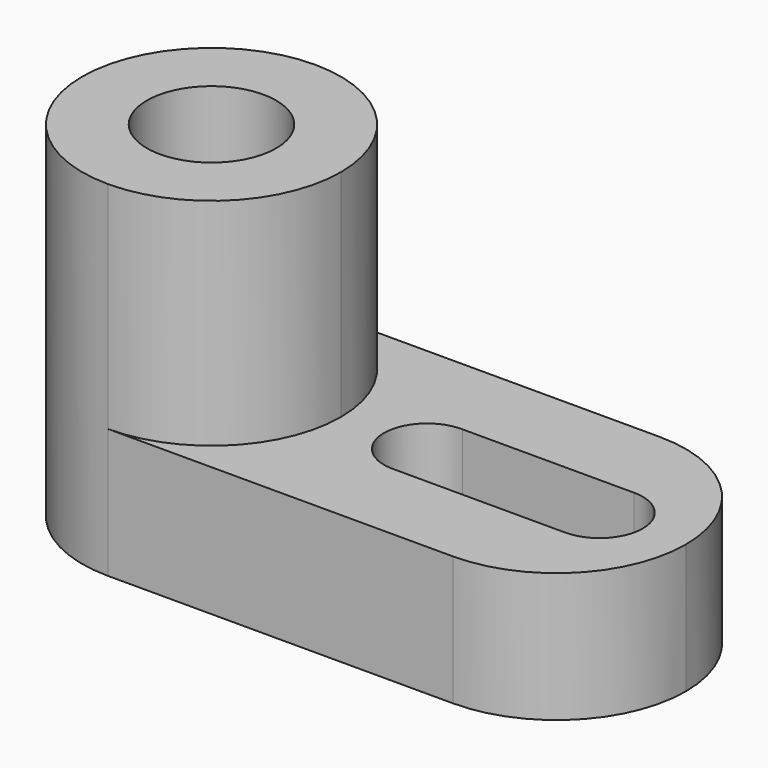
from build123d import *

# Parameters (mm, degrees)
F1_DEPTH  = 38.1
F3_DEPTH  = 50.8
F5_DEPTH  = 31.75
F7_DEPTH  = 25.4
F8_R      = 9.525
F9_DEPTH  = 63.5
F11_DEPTH = 25.4


with BuildPart() as f1:
    # F0 (on Front) → F1 (new body)
    with BuildSketch(Plane.XZ):
        Polygon((0, 50.8), (0, 0), (88.9, 0), (88.9, 19.05), (38.1, 19.05), (38.1, 50.8), align=None)
    extrude(amount=F1_DEPTH)

    # F2 (on face) → F3 (cut)
    with BuildSketch(Plane.XY.offset(50.8)):
        with BuildLine():
            ThreePointArc((19.05, -38.1), (5.579616, -32.520384), (0, -19.05))
            Line((0, -19.05), (0, -38.1))
            Line((0, -38.1), (19.05, -38.1))
        make_face()
        with BuildLine():
            ThreePointArc((0, -19.05), (5.579616, -5.579616), (19.05, 0))
            Line((19.05, 0), (0, 0))
            Line((0, 0), (0, -19.05))
        make_face()
    extrude(amount=-F3_DEPTH, mode=Mode.SUBTRACT)

    # F4 (on face) → F5 (cut)
    with BuildSketch(Plane.XY.offset(50.8)):
        with BuildLine():
            Line((38.1, -38.1), (38.1, -19.05))
            ThreePointArc((38.1, -19.05), (32.520384, -32.520384), (19.05, -38.1))
            Line((19.05, -38.1), (38.1, -38.1))
        make_face()
        with BuildLine():
            Line((38.1, 0), (19.05, 0))
            ThreePointArc((19.05, 0), (32.520384, -5.579616), (38.1, -19.05))
            Line((38.1, -19.05), (38.1, 0))
        make_face()
    extrude(amount=-F5_DEPTH, mode=Mode.SUBTRACT)

    # F6 (on face) → F7 (cut)
    with BuildSketch(Plane.XY.offset(19.05)):
        with BuildLine():
            ThreePointArc((19.05, -38.1), (38.1, -19.05), (19.05, 0))
            Line((19.05, 0), (19.05, -38.1))
        make_face()
        with BuildLine():
            Line((88.9, 0), (69.85, 0))
            ThreePointArc((69.85, 0), (83.320384, -5.579616), (88.9, -19.05))
            Line((88.9, -19.05), (88.9, 0))
        make_face()
        with BuildLine():
            ThreePointArc((88.9, -19.05), (83.320384, -32.520384), (69.85, -38.1))
            Line((69.85, -38.1), (88.9, -38.1))
            Line((88.9, -38.1), (88.9, -19.05))
        make_face()
    extrude(amount=-F7_DEPTH, mode=Mode.SUBTRACT)

    # F8 (on face) → F9 (cut)
    with BuildSketch(Plane.XY.offset(50.8)):
        with Locations((19.05, -19.05)):
            Circle(F8_R)
    extrude(amount=-F9_DEPTH, mode=Mode.SUBTRACT)

    # F10 (on face) → F11 (cut)
    with BuildSketch(Plane.XY.offset(19.05)):
        with BuildLine():
            ThreePointArc((51.050775, -25.395046), (55.377932, -23.450573), (57.15, -19.05))
            ThreePointArc((57.15, -19.05), (55.339429, -14.609721), (50.94021, -12.701548))
            ThreePointArc((50.94021, -12.701548), (44.453049, -18.85325), (50.546726, -25.394947))
            Line((50.546726, -25.394947), (51.050775, -25.395046))
        make_face()
        with BuildLine():
            ThreePointArc((50.94021, -12.701548), (55.339429, -14.609721), (57.15, -19.05))
            ThreePointArc((57.15, -19.05), (55.377932, -23.450573), (51.050775, -25.395046))
            Line((51.050775, -25.395046), (76.198749, -25.4))
            ThreePointArc((76.198749, -25.4), (69.85, -19.049569), (76.199611, -12.7))
            Line((76.199611, -12.7), (50.94021, -12.701548))
        make_face()
        with BuildLine():
            ThreePointArc((50.546726, -25.394947), (50.798749, -25.4), (51.050775, -25.395046))
            Line((51.050775, -25.395046), (50.546726, -25.394947))
        make_face()
        with BuildLine():
            ThreePointArc((82.55, -19.05), (80.68999, -14.559734), (76.199611, -12.7))
            ThreePointArc((76.199611, -12.7), (69.85, -19.049569), (76.198749, -25.4))
            ThreePointArc((76.198749, -25.4), (80.689686, -23.54057), (82.55, -19.05))
        make_face()
    extrude(amount=-F11_DEPTH, mode=Mode.SUBTRACT)


solid = f1.part
